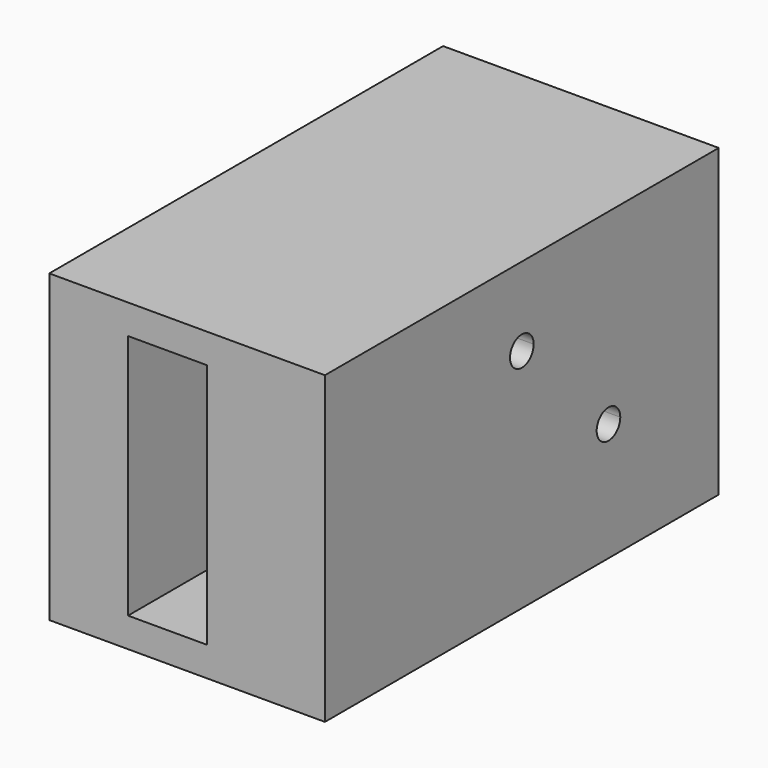
from build123d import *

# Parameters (mm, degrees)
F0_W     = 28
F0_H     = 50
F1_DEPTH = 3
F2_W     = 8
F2_H     = 50
F2_W_2   = 12
F3_DEPTH = 25
F4_W     = 20
F4_H     = 50
F4_W_2   = 8
F5_DEPTH = 3
F7_DEPTH = 67.4


with BuildPart() as f1:
    # F0 (on Top) → F1 (new body)
    with BuildSketch(Plane.XY):
        with Locations((14, 25)):
            Rectangle(F0_W, F0_H)
    extrude(amount=F1_DEPTH)

    # F2 (on face) → F3 (join)
    with BuildSketch(Plane.XY.offset(3)):
        with Locations((4, 25)):
            Rectangle(F2_W, F2_H)
        with Locations((22, 25)):
            Rectangle(F2_W_2, F2_H)
    extrude(amount=F3_DEPTH)

    # F4 (on face) → F5 (join)
    with BuildSketch(Plane.XY.offset(28)):
        with Locations((18, 25)):
            Rectangle(F4_W, F4_H)
        with Locations((4, 25)):
            Rectangle(F4_W_2, F4_H)
    extrude(amount=F5_DEPTH)

    # F6 (on face) → F7 (cut)
    with BuildSketch(Plane.YZ.offset(28)):
        with BuildLine():
            ThreePointArc((26.5, 23), (26.06066, 24.06066), (25, 24.5))
            ThreePointArc((25, 24.5), (23.93934, 21.93934), (26.5, 23))
        make_face()
        with BuildLine():
            ThreePointArc((37.5, 12), (37.06066, 13.06066), (36, 13.5))
            ThreePointArc((36, 13.5), (34.93934, 10.93934), (37.5, 12))
        make_face()
    extrude(amount=-F7_DEPTH, mode=Mode.SUBTRACT)


solid = f1.part
